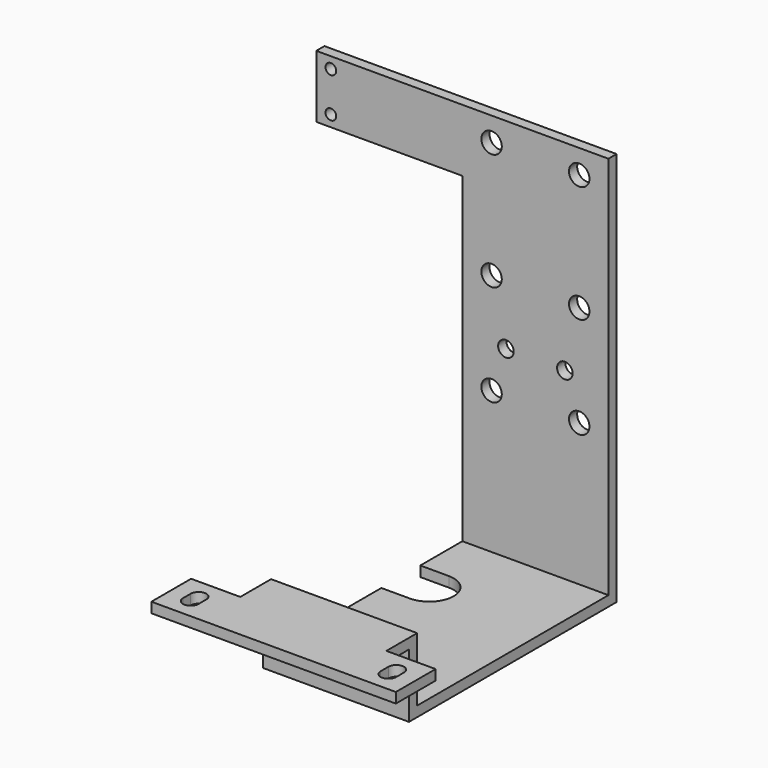
from build123d import *

# Parameters (mm, degrees)
F0_W      = 30
F0_H      = 81
F1_DEPTH  = 2.1
F2_W      = 30
F2_H      = 2.1
F3_DEPTH  = 51.2
F4_W      = 30
F4_H      = 2.1
F5_DEPTH  = 13.1
F6_W      = 30
F6_H      = 2.1
F7_DEPTH  = 16
F8_W      = 10.1
F8_H      = 10.2
F9_DEPTH  = 2.1
F11_DEPTH = 15.201
F13_DEPTH = 2.101
F14_R     = 2.1
F14_R_2   = 1.6
F15_DEPTH = 2.101
F16_W     = 2.1
F16_H     = 12.85
F17_DEPTH = 30
F18_R     = 1.1
F19_DEPTH = 25


with BuildPart() as f1:
    # F0 (on Front) → F1 (new body)
    with BuildSketch(Plane.XZ):
        Rectangle(F0_W, F0_H)
    extrude(amount=F1_DEPTH)

    # F2 (on face) → F3 (join)
    with BuildSketch(Plane.XZ.offset(2.1)):
        with Locations((0, -39.45)):
            Rectangle(F2_W, F2_H)
    extrude(amount=F3_DEPTH)

    # F4 (on face) → F5 (join)
    with BuildSketch(Plane.XY.offset(-38.4)):
        with Locations((0, -52.25)):
            Rectangle(F4_W, F4_H)
    extrude(amount=F5_DEPTH)

    # F6 (on face) → F7 (join)
    with BuildSketch(Plane.XZ.offset(53.3)):
        with Locations((0, -26.35)):
            Rectangle(F6_W, F6_H)
    extrude(amount=F7_DEPTH)

    # F8 (on face) → F9 (join)
    with BuildSketch(Plane.XY.offset(-25.3)):
        with Locations((-20.05, -64.2)):
            Rectangle(F8_W, F8_H)
        with Locations((20.05, -64.2)):
            Rectangle(F8_W, F8_H)
    extrude(amount=-F9_DEPTH)

    # F10 (on face) → F11 (cut, through all)
    with BuildSketch(Plane.XY.offset(-25.3)):
        with BuildLine():
            Line((-21.9, -63.2), (-21.9, -65.2))
            ThreePointArc((-21.9, -65.2), (-20.3, -66.8), (-18.7, -65.2))
            Line((-18.7, -65.2), (-18.7, -63.2))
            ThreePointArc((-18.7, -63.2), (-20.3, -61.6), (-21.9, -63.2))
        make_face()
        with BuildLine():
            Line((18.7, -63.2), (18.7, -65.2))
            ThreePointArc((18.7, -65.2), (20.3, -66.8), (21.9, -65.2))
            Line((21.9, -65.2), (21.9, -63.2))
            ThreePointArc((21.9, -63.2), (20.3, -61.6), (18.7, -63.2))
        make_face()
    extrude(amount=-F11_DEPTH, mode=Mode.SUBTRACT)

    # F12 (on face) → F13 (cut, through all)
    with BuildSketch(Plane.XY.offset(-38.4)):
        with BuildLine():
            Line((-15, -22.894339), (-9.15, -22.894339))
            ThreePointArc((-9.15, -22.894339), (-4.15, -17.894339), (-9.15, -12.894339))
            Line((-9.15, -12.894339), (-15, -12.894339))
            Line((-15, -12.894339), (-15, -22.894339))
        make_face()
    extrude(amount=-F13_DEPTH, mode=Mode.SUBTRACT)

    # F14 (on face) → F15 (cut, through all)
    with BuildSketch(Plane.XZ.offset(2.1)):
        with Locations((9, 35.6)):
            Circle(F14_R)
        with Locations((9, 11.6)):
            Circle(F14_R)
        with Locations((-9, 35.6)):
            Circle(F14_R)
        with Locations((-9, 11.6)):
            Circle(F14_R)
        with Locations((9, -9.2)):
            Circle(F14_R)
        with Locations((-9, -9.2)):
            Circle(F14_R)
        with Locations((6.05, -0.7)):
            Circle(F14_R_2)
        with Locations((-6.05, -0.7)):
            Circle(F14_R_2)
    extrude(amount=-F15_DEPTH, mode=Mode.SUBTRACT)

    # F16 (on face) → F17 (join)
    with BuildSketch(Plane(origin=(-15, 0, 0), x_dir=(0, -1, 0), z_dir=(-1, 0, 0))):
        with Locations((1.05, 34.075)):
            Rectangle(F16_W, F16_H)
    extrude(amount=F17_DEPTH)

    # F18 (on face) → F19 (cut)
    with BuildSketch(Plane.XZ.offset(2.1)):
        with Locations((-42, 38.175)):
            Circle(F18_R)
        with Locations((-42, 29.975)):
            Circle(F18_R)
    extrude(amount=-F19_DEPTH, mode=Mode.SUBTRACT)


solid = f1.part
